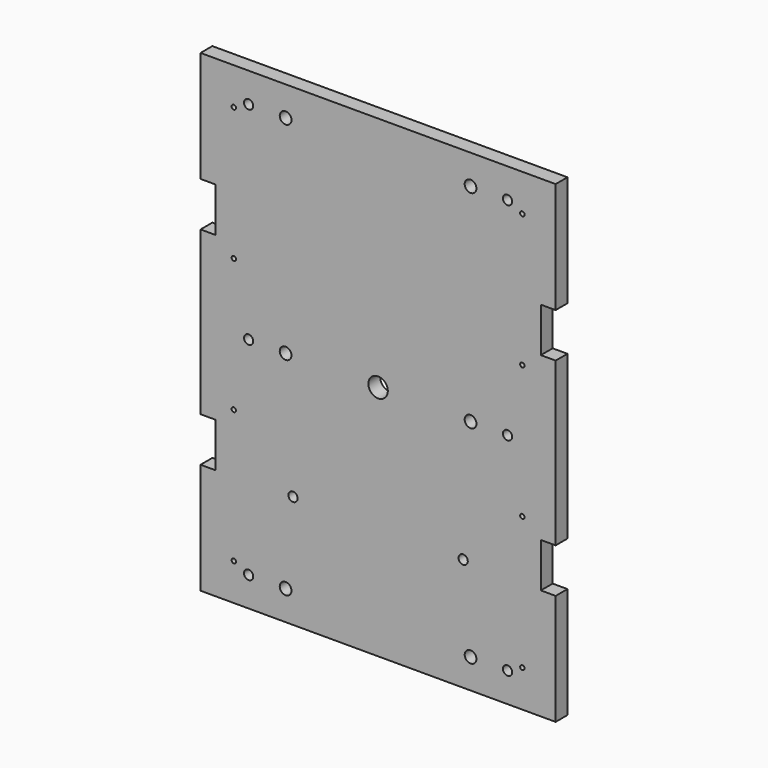
from build123d import *

# Parameters (mm, degrees)
F1_DEPTH = 12.7
F2_D     = 3.7973
F2_DEPTH = 15.8877
F2_TIP   = 1.1408240143
F3_D     = 16.66748
F3_DEPTH = 15.9004
F3_TIP   = 5.0074161752
F4_D     = 7.9375
F4_DEPTH = 17.4879
F4_TIP   = 2.3846655818
F5_D     = 10.0838
F5_DEPTH = 17.5006
F5_TIP   = 3.0294791551
F6_D     = 7.9375
F6_DEPTH = 20.6756
F6_TIP   = 2.3846655818


with BuildPart() as f1:
    # F0 (on Front) → F1 (new body)
    with BuildSketch(Plane.XZ):
        Polygon((-304.8, 0), (0, 0), (0, 95.2246), (-12.7254, 95.2246), (-12.7254, 133.3754), (0, 133.3754), (0, 273.0246), (-12.7254, 273.0246), (-12.7254, 311.1754), (0, 311.1754), (0, 406.4), (-304.8, 406.4), (-304.8, 311.1754), (-292.0746, 311.1754), (-292.0746, 273.0246), (-304.8, 273.0246), (-304.8, 133.3754), (-292.0746, 133.3754), (-292.0746, 95.2246), (-304.8, 95.2246), align=None)
    extrude(amount=F1_DEPTH)

    # F2
    with Locations(Plane(origin=(0, 0, 0), x_dir=(1, 0, 0), z_dir=(0, 1, 0))):
        with Locations((-276.225, -374.65), (-276.225, -260.35), (-276.225, -146.05), (-276.225, -31.75), (-28.575, -374.65), (-28.575, -260.35), (-28.575, -146.05), (-28.575, -31.75)):
            Hole(F2_D / 2, depth=F2_DEPTH)
            with Locations((0, 0, -(F2_DEPTH + F2_TIP / 2))):  # 118° drill point
                Cone(0, F2_D / 2, F2_TIP, mode=Mode.SUBTRACT)

    # F3
    with Locations(Plane(origin=(0, 0, 0), x_dir=(1, 0, 0), z_dir=(0, 1, 0))):
        with Locations((-152.4, -203.2)):
            Hole(F3_D / 2, depth=F3_DEPTH)
            with Locations((0, 0, -(F3_DEPTH + F3_TIP / 2))):  # 118° drill point
                Cone(0, F3_D / 2, F3_TIP, mode=Mode.SUBTRACT)

    # F4
    with Locations(Plane(origin=(0, 0, 0), x_dir=(1, 0, 0), z_dir=(0, 1, 0))):
        with Locations((-263.525, -381), (-263.525, -203.2), (-263.525, -25.4), (-41.275, -381), (-41.275, -203.2), (-41.275, -25.4)):
            Hole(F4_D / 2, depth=F4_DEPTH)
            with Locations((0, 0, -(F4_DEPTH + F4_TIP / 2))):  # 118° drill point
                Cone(0, F4_D / 2, F4_TIP, mode=Mode.SUBTRACT)

    # F5
    with Locations(Plane(origin=(0, 0, 0), x_dir=(1, 0, 0), z_dir=(0, 1, 0))):
        with Locations((-231.775, -381), (-231.775, -203.2), (-231.775, -25.4), (-73.025, -25.4), (-73.025, -203.2), (-73.025, -381)):
            Hole(F5_D / 2, depth=F5_DEPTH)
            with Locations((0, 0, -(F5_DEPTH + F5_TIP / 2))):  # 118° drill point
                Cone(0, F5_D / 2, F5_TIP, mode=Mode.SUBTRACT)

    # F6
    with Locations(Plane(origin=(0, 0, 0), x_dir=(1, 0, 0), z_dir=(0, 1, 0))):
        with Locations((-225.425, -96.8375), (-79.375, -96.8375)):
            Hole(F6_D / 2, depth=F6_DEPTH)
            with Locations((0, 0, -(F6_DEPTH + F6_TIP / 2))):  # 118° drill point
                Cone(0, F6_D / 2, F6_TIP, mode=Mode.SUBTRACT)


solid = f1.part
